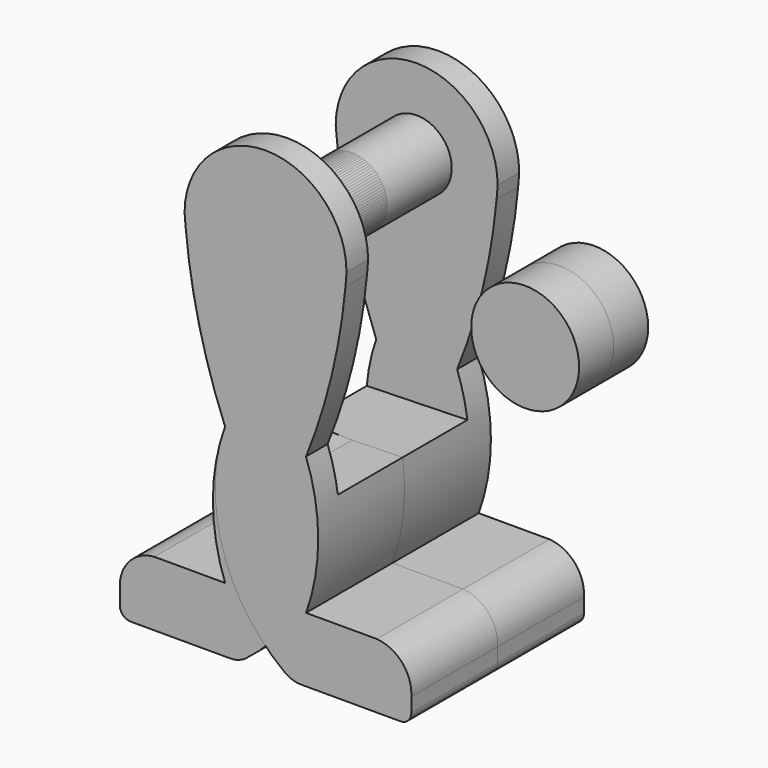
from build123d import *

# Parameters (mm, degrees)
F1_DEPTH = 20
F3_DEPTH = 15
F4_R     = 6.5
F5_DEPTH = 15
F6_R     = 10
F7_DEPTH = 8
F8_R     = 6.75
F9_DEPTH = 3


with BuildPart() as f1:
    # F0 (on Front) → F1 (new body)
    with BuildSketch(Plane.XZ):
        with BuildLine():
            ThreePointArc((7.5, -23.7335821161), (12.0730484615, -9.1622264301), (14.7194400461, 5.8788436895))
            ThreePointArc((14.7194400461, 5.8788436895), (14.8686238637, 7.3217656795), (15, 8.7664178839))
            ThreePointArc((15, 8.7664178839), (0, 23.7664178839), (-15, 8.7664178839))
            ThreePointArc((-15, 8.7664178839), (-14.9094099416, 7.5608277396), (-14.8051190773, 6.3563454564))
            ThreePointArc((-14.8051190773, 6.3563454564), (-12.2536543916, -8.9559379835), (-7.5, -23.7335821161))
            ThreePointArc((-7.5, -23.7335821161), (-9.7576147968, -36.4835821161), (-7.5, -49.2335821161))
            Line((-7.5, -49.2335821161), (-19.6980078494, -49.2335821161))
            Line((-19.6980078494, -49.2335821161), (-20.5934010505, -49.2335821161))
            ThreePointArc((-20.5934010505, -49.2335821161), (-25.3089926158, -51.5577281047), (-27, -56.5355742668))
            Line((-27, -56.5355742668), (-27, -59.2335821161))
            ThreePointArc((-27, -59.2335821161), (-26.4142135624, -60.6477956785), (-25, -61.2335821161))
            Line((-25, -61.2335821161), (-6.5831534378, -61.2335821161))
            ThreePointArc((-6.5831534378, -61.2335821161), (-5.0075024369, -60.9788243569), (-3.5924151633, -60.2405116855))
            ThreePointArc((-3.5924151633, -60.2405116855), (7.9484414636, -43.8084856455), (7.5, -23.7335821161))
        make_face()
    extrude(amount=F1_DEPTH)

    # F2 (on face) → F3 (cut)
    with BuildSketch(Plane(origin=(0, 0, 0), x_dir=(-1, 0, 0), z_dir=(0, 1, 0))):
        with BuildLine():
            ThreePointArc((15, 8.7664178839), (10.6066017178, 19.3730196017), (0, 23.7664178839))
            ThreePointArc((0, 23.7664178839), (-10.6066017178, 19.3730196017), (-15, 8.7664178839))
            ThreePointArc((-15, 8.7664178839), (-12.4079431857, -7.7507997744), (-7.5, -23.7335821161))
            ThreePointArc((-7.5, -23.7335821161), (-8.6307146126, -27.7430675083), (-9.2339552182, -31.8650317751))
            Line((-9.2339552182, -31.8650317751), (9.4051248205, -31.3793644283))
            ThreePointArc((9.4051248205, -31.3793644283), (8.6559449142, -27.5057957822), (7.5, -23.7335821161))
            ThreePointArc((7.5, -23.7335821161), (12.532199405, -7.7794742865), (15, 8.7664178839))
        make_face()
    extrude(amount=-F3_DEPTH, mode=Mode.SUBTRACT)

    # F4 (on face) → F5 (join)
    with BuildSketch(Plane(origin=(0, -15, 0), x_dir=(-1, 0, 0), z_dir=(0, 1, 0))):
        with Locations((0, 8.7664178839)):
            Circle(F4_R)
    extrude(amount=F5_DEPTH)


with BuildPart() as f7:
    # F6 (on Front) → F7 (new body)
    with BuildSketch(Plane.XZ):
        with Locations((44.8988303542, 4.6740109101)):
            Circle(F6_R)
    extrude(amount=F7_DEPTH)

    # F8 (on face) → F9 (cut)
    with BuildSketch(Plane.XZ.offset(8)):
        with Locations((44.8988303542, 4.6740109101)):
            Circle(F8_R)
    extrude(amount=-F9_DEPTH, mode=Mode.SUBTRACT)


with BuildPart() as f10_1:
    # F10: instance of F1
    add(f1.part.mirror(Plane.YZ))


with BuildPart() as f11_1:
    # F11: instance of F10_1
    add(f10_1.part.mirror(Plane(origin=(0, 0, 8.7664178839), x_dir=(-1, 0, 0), z_dir=(0, 1, 0))))


with BuildPart() as f12_1:
    # F12: instance of F7
    add(f7.part.mirror(Plane(origin=(44.8988303542, -8, 4.6740109101), x_dir=(1, 0, 0), z_dir=(0, -1, 0))))


solid = Compound([f1.part, f7.part, f10_1.part, f11_1.part, f12_1.part])
